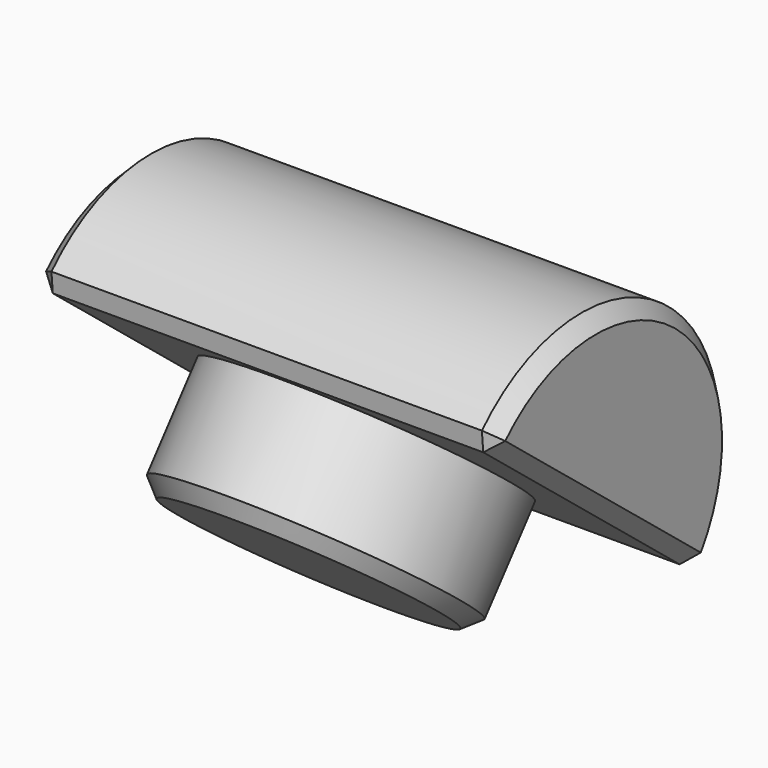
from build123d import *

# Parameters (mm, degrees)
PAD005_DEPTH            = 4
SKETCH014_R             = 2.5
PAD006_DEPTH            = 2
CHAMFER_SIZE            = 0.25
BODY005_ROLL_ANGLE      = -51.0553562624
BODY005_PLACEMENT_ANGLE = 180


with BuildPart() as part:
    # Sketch013 → Pad005 (new body, symmetric)
    with BuildSketch(Plane.YZ):
        with BuildLine():
            ThreePointArc((0, 3), (-3, 0), (0, -3))
            Line((0, 3), (0, -3))
        make_face()
    extrude(amount=PAD005_DEPTH, both=True)

    # Sketch014 (on Face2 of Pad005) → Pad006 (join)
    with BuildSketch(Plane.ZX):
        Circle(SKETCH014_R)
    extrude(amount=PAD006_DEPTH)

    # Chamfer
    chamfer_edges = [part.edges().sort_by_distance(p)[0] for p in [
        (0, 2, -2.5),
        (-4, -3, 0),
        (-4, 0, 0),
        (4, -3, 0),
        (4, 0, 0),
        (0, 0, -3),
        (0, 0, 3),
    ]]
    chamfer(chamfer_edges, length=CHAMFER_SIZE)


with BuildPart() as part_1:
    # Body005 roll: moved
    add(part.part.rotate(Axis((0, 0, 0), (1, 0, 0)), BODY005_ROLL_ANGLE))


with BuildPart() as part_2:
    # Body005 placement: moved
    add(part_1.part.moved(Location((0, 23.5078988941, 19.0379414122))).rotate(Axis((0, 23.5078988941, 19.0379414122), (0, 0, 1)), BODY005_PLACEMENT_ANGLE))


solid = part_2.part
